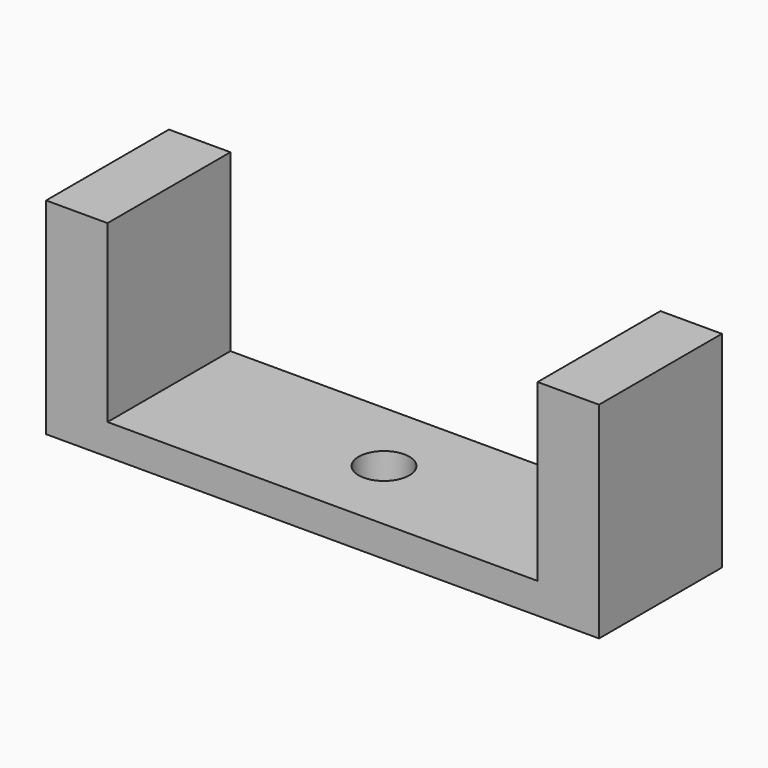
from build123d import *

# Parameters (mm, degrees)
F0_W     = 18
F0_H     = 5
F0_R     = 0.825
F1_DEPTH = 1
F2_W     = 2
F2_H     = 5
F3_DEPTH = 5.7


with BuildPart() as f1:
    # F0 (on Top) → F1 (new body)
    with BuildSketch(Plane.XY):
        Rectangle(F0_W, F0_H)
        Circle(F0_R, mode=Mode.SUBTRACT)
    extrude(amount=F1_DEPTH)

    # F2 (on face) → F3 (join)
    with BuildSketch(Plane.XY.offset(1)):
        with Locations((-8, 0)):
            Rectangle(F2_W, F2_H)
        with Locations((8, 0)):
            Rectangle(F2_W, F2_H)
    extrude(amount=F3_DEPTH)


solid = f1.part
